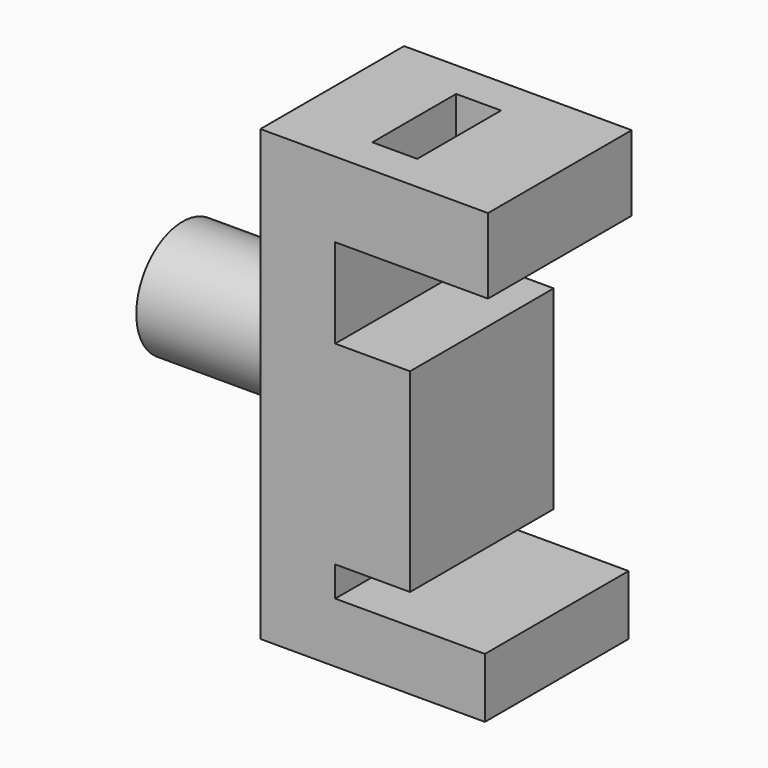
from build123d import *

# Parameters (mm, degrees)
PAD_DEPTH    = 24
SKETCH002_R  = 7.732913
PAD001_DEPTH = 20
SKETCH001_W  = 6
SKETCH001_H  = 14
POCKET_DEPTH = 11


with BuildPart() as part:
    # Sketch → Pad (new body)
    with BuildSketch(Plane.XZ):
        Polygon((-9.577921, 39.93367), (-30, 39.93367), (-30, 28.000008), (-20, 28.000008), (-20, 2.029604), (-30, 2.029604), (-30, -2), (-9.99258, -2), (-9.99258, -10), (-40, -10), (-40, 50.000008), (-9.577921, 50.000008), align=None)
    extrude(amount=PAD_DEPTH)

    # Sketch002 → Pad001 (join)
    with BuildSketch(Plane(origin=(-40, 0, 0), x_dir=(0, 0, -1), z_dir=(-1, 0, 0))):
        with Locations((-20, 12)):
            Circle(SKETCH002_R)
    extrude(amount=PAD001_DEPTH)

    # Sketch001 (on Face11 of Pad) → Pocket (cut)
    with BuildSketch(Plane(origin=(0, 0, 50.000008), x_dir=(-1, 0, 0), z_dir=(0, 0, 1))):
        with Locations((26, 12.048018)):
            Rectangle(SKETCH001_W, SKETCH001_H)
    extrude(amount=-POCKET_DEPTH, mode=Mode.SUBTRACT)


solid = part.part
